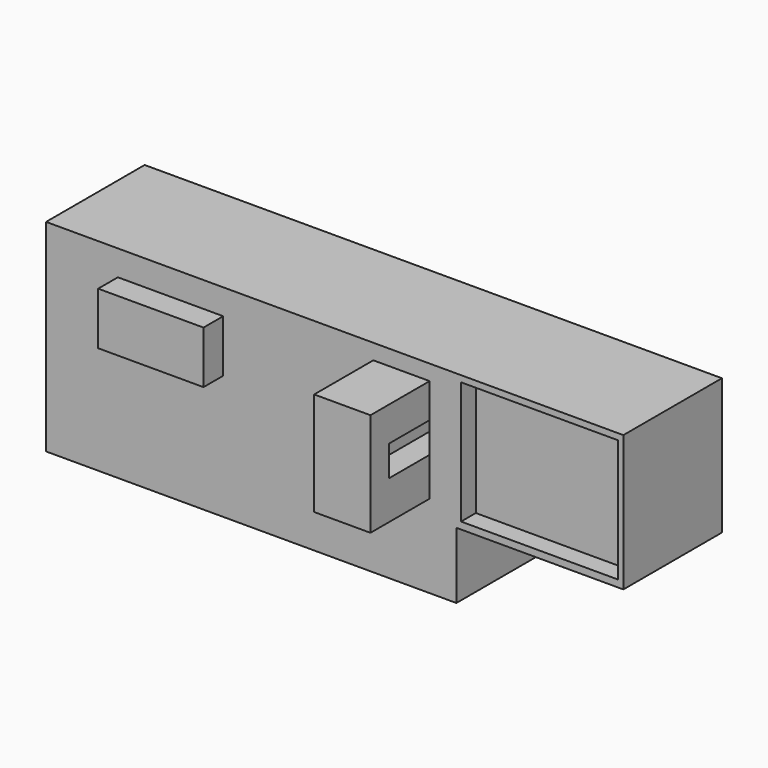
from build123d import *

# Parameters (mm, degrees)
F0_W      = 34.420416
F0_H      = 28.010136
F1_DEPTH  = 25.4
F2_W      = 21.713977
F2_H      = 10.812225
F3_DEPTH  = 5.08
F4_W      = 32.364089
F4_H      = 25.274814
F5_DEPTH  = 3.81
F6_W      = 11.602566
F6_H      = 21.341514
F7_DEPTH  = 15.24
F8_W      = 10.458534
F8_H      = 6.296051
F9_DEPTH  = 5.08
F10_W     = 5.08
F10_H     = 6.296051
F11_DEPTH = 25.4


with BuildPart() as f1:
    # F0 (on Front) → F1 (new body)
    with BuildSketch(Plane.XZ):
        Polygon((45.290023, 17.697947), (-39.297804, 17.697947), (-39.297804, -23.968874), (45.290023, -23.968874), (45.290023, -10.312189), align=None)
        with Locations((62.500231, 3.692879)):
            Rectangle(F0_W, F0_H)
    extrude(amount=F1_DEPTH)

    # F2 (on face) → F3 (join)
    with BuildSketch(Plane.XZ.offset(25.4)):
        with Locations((-13.639831, 7.048171)):
            Rectangle(F2_W, F2_H)
    extrude(amount=F3_DEPTH)

    # F4 (on face) → F5 (cut)
    with BuildSketch(Plane.XZ.offset(25.4)):
        with Locations((62.433859, 3.767056)):
            Rectangle(F4_W, F4_H)
    extrude(amount=-F5_DEPTH, mode=Mode.SUBTRACT)

    # F6 (on face) → F7 (join)
    with BuildSketch(Plane.XZ.offset(25.4)):
        with Locations((33.965688, 3.841953)):
            Rectangle(F6_W, F6_H)
    extrude(amount=F7_DEPTH)

    # F8 (on face) → F9 (cut)
    with BuildSketch(Plane.YZ.offset(39.766971)):
        with Locations((-30.629267, 4.275792)):
            Rectangle(F8_W, F8_H)
    extrude(amount=-F9_DEPTH, mode=Mode.SUBTRACT)

    # F10 (on face) → F11 (cut)
    with BuildSketch(Plane.XZ.offset(25.4)):
        with Locations((37.226971, 4.275792)):
            Rectangle(F10_W, F10_H)
    extrude(amount=-F11_DEPTH, mode=Mode.SUBTRACT)


solid = f1.part
